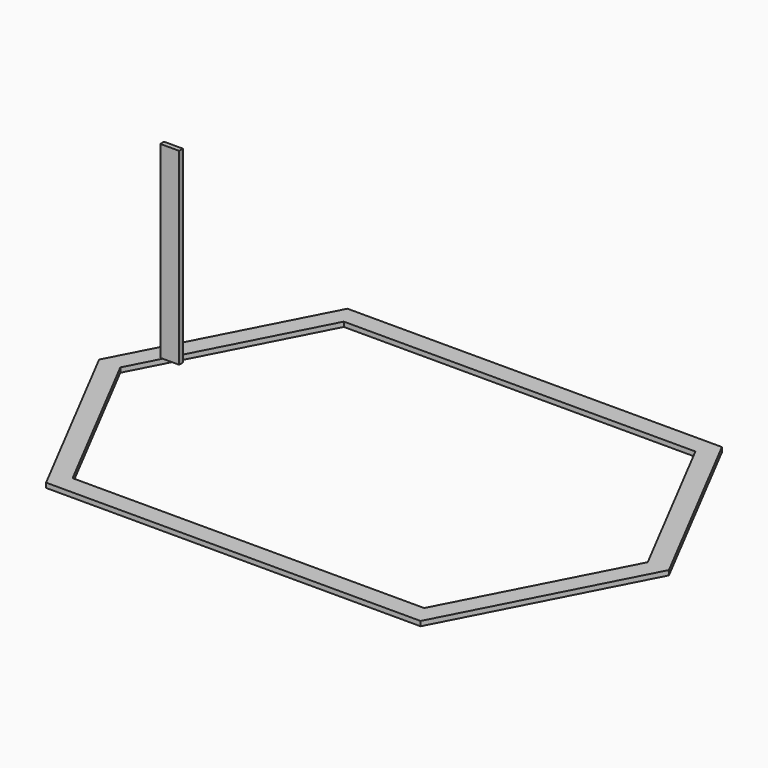
from build123d import *

# Parameters (mm, degrees)
F1_DEPTH = 25
F2_W     = 100
F2_H     = 1000
F3_DEPTH = 25


with BuildPart() as f1:
    # F0 (on Top) → F1 (new body)
    with BuildSketch(Plane.XY):
        Polygon((-994.1252320426, 1000), (-1512.6437505611, 0), (-994.1252320426, -1000), (994.1252320426, -1000), (1512.6437505611, 0), (994.1252320426, 1000), align=None)
        Polygon((-933.3333333333, -900), (-1400, 0), (-933.3333333333, 900), (0, 900), (933.3333333333, 900), (1400, 0), (933.3333333333, -900), (0, -900), align=None, mode=Mode.SUBTRACT)
    extrude(amount=F1_DEPTH)


with BuildPart() as f3:
    # F2 (on Front) → F3 (new body)
    with BuildSketch(Plane.XZ):
        with Locations((-1117.7310585976, 655.5092059186)):
            Rectangle(F2_W, F2_H)
    extrude(amount=F3_DEPTH)


solid = Compound([f1.part, f3.part])
